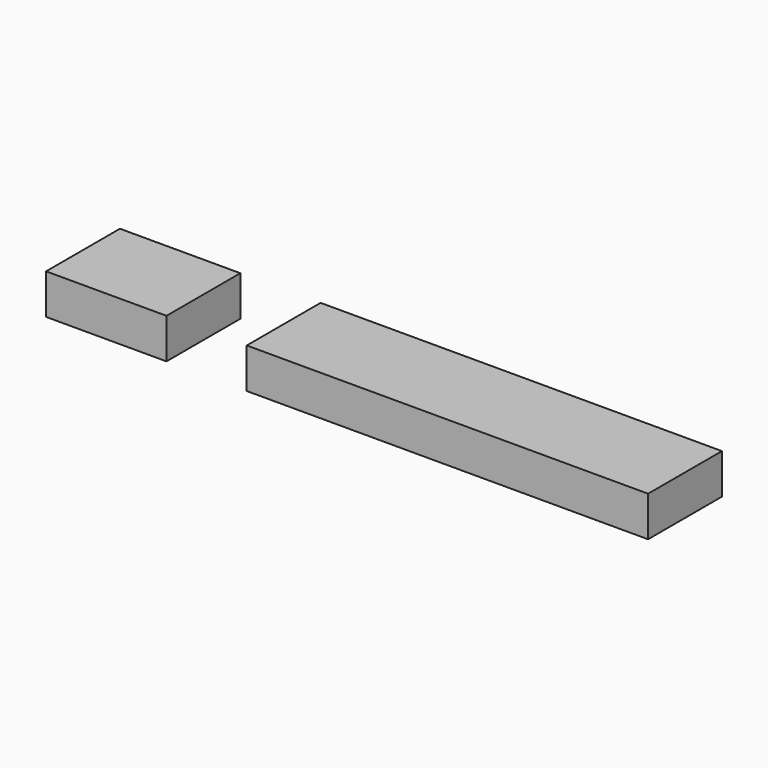
from build123d import *

# Parameters (mm, degrees)
BOX020_W     = 100
BOX020_H     = 23
BOX020_DEPTH = 10
BOX019_W     = 30
BOX019_H     = 23
BOX019_DEPTH = 10


with BuildPart() as box020:
    # Box020 → Box020 (new body)
    with BuildSketch(Plane(origin=(50, 0, 0), x_dir=(1, 0, 0), z_dir=(0, 0, 1))):
        with Locations((50, 11.5)):
            Rectangle(BOX020_W, BOX020_H)
    extrude(amount=BOX020_DEPTH)


with BuildPart() as fusion008:
    # Box019 → Box019 (new body)
    with BuildSketch(Plane.XY):
        with Locations((15, 11.5)):
            Rectangle(BOX019_W, BOX019_H)
    extrude(amount=BOX019_DEPTH)

    # Fusion008: union Box020
    add(box020.part)


solid = fusion008.part
